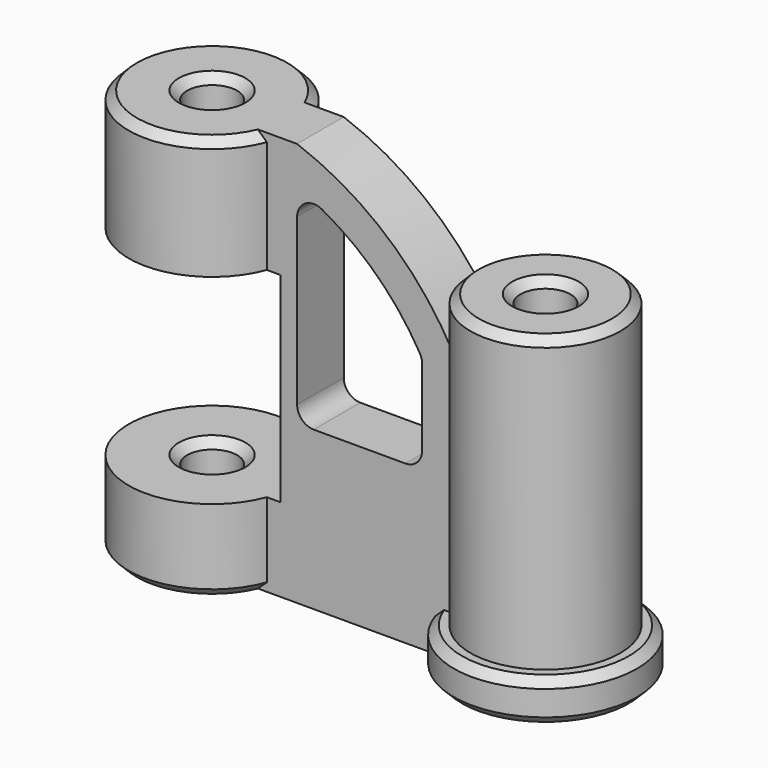
from build123d import *

# Parameters (mm, degrees)
F0_R      = 25.4
F0_R_2    = 7.62
F1_DEPTH  = 123.19
F0_R_3    = 22.86
F3_DEPTH  = 101.6
F5_DEPTH  = 8.89
F6_W      = 60.96
F6_H      = 60.96
F7_DEPTH  = 50.8
F8_R      = 5.08
F9_SIZE   = 2.54
F10_R     = 27.94
F10_R_2   = 22.86
F11_DEPTH = 12.7
F12_SIZE  = 2.54


with BuildPart() as f1:
    # F0 (on Top) → F1 (new body)
    with BuildSketch(Plane.XY):
        Circle(F0_R)
        Circle(F0_R_2, mode=Mode.SUBTRACT)
    extrude(amount=F1_DEPTH)



with BuildPart() as f3:
    # F0 (on Top) → F3 (new body)
    with BuildSketch(Plane.XY):
        with Locations((101.6, 0)):
            Circle(F0_R_3)
        with Locations((101.6, 0)):
            Circle(F0_R_2, mode=Mode.SUBTRACT)
    extrude(amount=F3_DEPTH)


with BuildPart() as f1_1:
    add(f1.part)

    add(f3.part)  # F5 merges F3
    # F4 (on Front) → F5 (join, symmetric)
    with BuildSketch(Plane.XZ):
        with BuildLine():
            Line((20.32, 123.19), (20.32, 0))
            Line((20.32, 0), (81.28, 0))
            Line((81.28, 0), (81.28, 81.28))
            ThreePointArc((81.28, 81.28), (61.0468357955, 106.7222654615), (33.02, 123.19))
            Line((33.02, 123.19), (20.32, 123.19))
        make_face()
        with BuildLine():
            ThreePointArc((33.02, 111.6727406383), (54.9192892431, 98.053343988), (71.12, 77.988354443))
            Line((71.12, 77.988354443), (71.12, 48.1727406383))
            Line((71.12, 48.1727406383), (33.02, 48.1727406383))
            Line((33.02, 48.1727406383), (33.02, 111.6727406383))
        make_face(mode=Mode.SUBTRACT)
    extrude(amount=F5_DEPTH, both=True)

    # F6 (on Front) → F7 (cut, symmetric)
    with BuildSketch(Plane.XZ):
        with Locations((-2.54, 55.88)):
            Rectangle(F6_W, F6_H)
    extrude(amount=F7_DEPTH, both=True, mode=Mode.SUBTRACT)

    # F8
    f8_edges = [f1_1.edges().sort_by_distance(p)[0] for p in [
        (33.02, 0, 111.672741),
        (71.12, 0, 77.988354),
        (33.02, 0, 48.172741),
        (71.12, 0, 48.172741),
    ]]
    fillet(f8_edges, radius=F8_R)

    # F9
    f9_edges = [f1_1.edges().sort_by_distance(p)[0] for p in [
        (-7.62, 0, 123.19),
        (-25.4, 0, 123.19),
        (-7.62, 0, 25.4),
        (-7.62, 0, 0),
        (-25.4, 0, 0),
    ]]
    chamfer(f9_edges, length=F9_SIZE)

    # F10 (on Top) → F11 (join)
    with BuildSketch(Plane.XY):
        with Locations((101.6, 0)):
            Circle(F10_R)
        with Locations((101.6, 0)):
            Circle(F10_R_2, mode=Mode.SUBTRACT)
    extrude(amount=F11_DEPTH)

    # F12
    f12_edges = [f1_1.edges().sort_by_distance(p)[0] for p in [
        (93.98, 0, 0),
        (129.54, 0, 0),
        (93.98, 0, 101.6),
        (129.54, 0, 12.7),
        (78.74, 0, 101.6),
    ]]
    chamfer(f12_edges, length=F12_SIZE)


solid = f1_1.part
